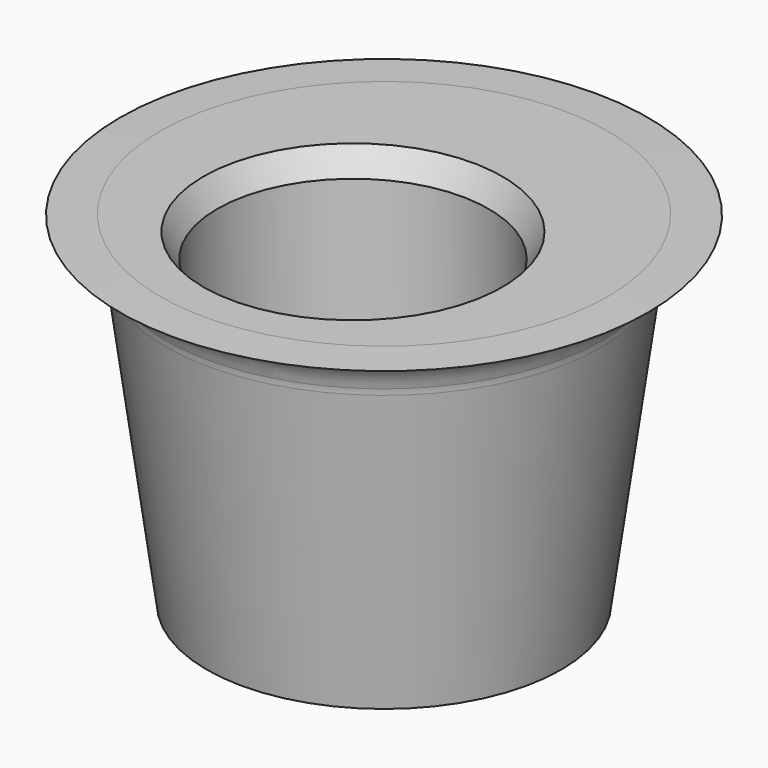
from build123d import *

# Parameters (mm, degrees)
F3_D           = 12.25
F3_CSINK_D     = 13.5
F3_CSINK_ANGLE = 60


with BuildPart() as f1:
    # F0 (on Front) → F1 (revolve)
    with BuildSketch(Plane.XZ):
        with BuildLine():
            Line((10.1, 0), (0, 0))
            Line((0, 0), (0, -15.5))
            Line((0, -15.5), (8, -15.5))
            Line((8, -15.5), (9.81555, -2.099511))
            ThreePointArc((9.81555, -2.099511), (9.829834, -1.961906), (9.85268, -1.82546))
            Line((9.85268, -1.82546), (10.1, 0))
        make_face()
        with BuildLine():
            Line((11.908681, -0.047055), (10.1, 0))
            Line((10.1, 0), (9.85268, -1.82546))
            ThreePointArc((9.85268, -1.82546), (10.575835, -0.583828), (11.908681, -0.047055))
        make_face()
    revolve(axis=Axis((0, 0, -7.75), (0, 0, -1)))

    # F3 (through all)
    with Locations(Plane.XY):
        with Locations((0, -1.75)):
            CounterSinkHole(F3_D / 2, F3_CSINK_D / 2, counter_sink_angle=F3_CSINK_ANGLE)


solid = f1.part
